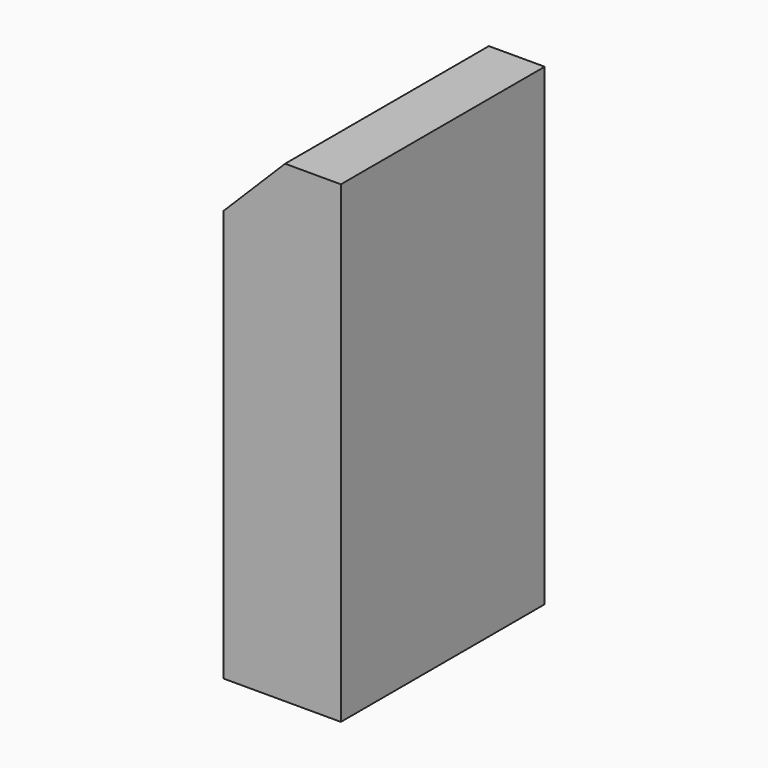
from build123d import *

# Parameters (mm, degrees)
F1_DEPTH = 82.55
F3_R     = 4.3688
F4_DEPTH = 25.4
F5_DEPTH = 25.4


with BuildPart() as f1:
    # F0 (on Front) → F1 (new body)
    with BuildSketch(Plane.XZ):
        Polygon((-38.1, 0), (0, 0), (0, 153.3652), (-18.0848, 153.3652), (-38.1, 133.35), align=None)
    extrude(amount=F1_DEPTH)

    # F3 (on face) → F4 (cut)
    with BuildSketch(Plane(origin=(0, 0, 0), x_dir=(1, 0, 0), z_dir=(0, 0, -1))):
        with Locations((-19.05, 9.525)):
            Circle(F3_R)
        with Locations((-19.05, 73.025)):
            Circle(F3_R)
    extrude(amount=-F4_DEPTH, mode=Mode.SUBTRACT)

    # F2 (on face) → F5 (cut)
    with BuildSketch(Plane(origin=(-85.725, 0, 85.725), x_dir=(0, -1, 0), z_dir=(-0.707107, 0, 0.707107))):
        with BuildLine():
            ThreePointArc((68.6562, 81.504805), (73.025, 77.136005), (77.3938, 81.504805))
            Line((77.3938, 81.504805), (73.025, 81.504805))
            Line((73.025, 81.504805), (68.6562, 81.504805))
        make_face()
        with BuildLine():
            Line((73.025, 81.504805), (77.3938, 81.504805))
            ThreePointArc((77.3938, 81.504805), (73.025, 85.873605), (68.6562, 81.504805))
            Line((68.6562, 81.504805), (73.025, 81.504805))
        make_face()
        with BuildLine():
            ThreePointArc((5.1562, 81.504805), (9.525, 77.136005), (13.8938, 81.504805))
            Line((13.8938, 81.504805), (9.525, 81.504805))
            Line((9.525, 81.504805), (5.1562, 81.504805))
        make_face()
        with BuildLine():
            Line((9.525, 81.504805), (13.8938, 81.504805))
            ThreePointArc((13.8938, 81.504805), (9.525, 85.873605), (5.1562, 81.504805))
            Line((5.1562, 81.504805), (9.525, 81.504805))
        make_face()
    extrude(amount=-F5_DEPTH, mode=Mode.SUBTRACT)


solid = f1.part
